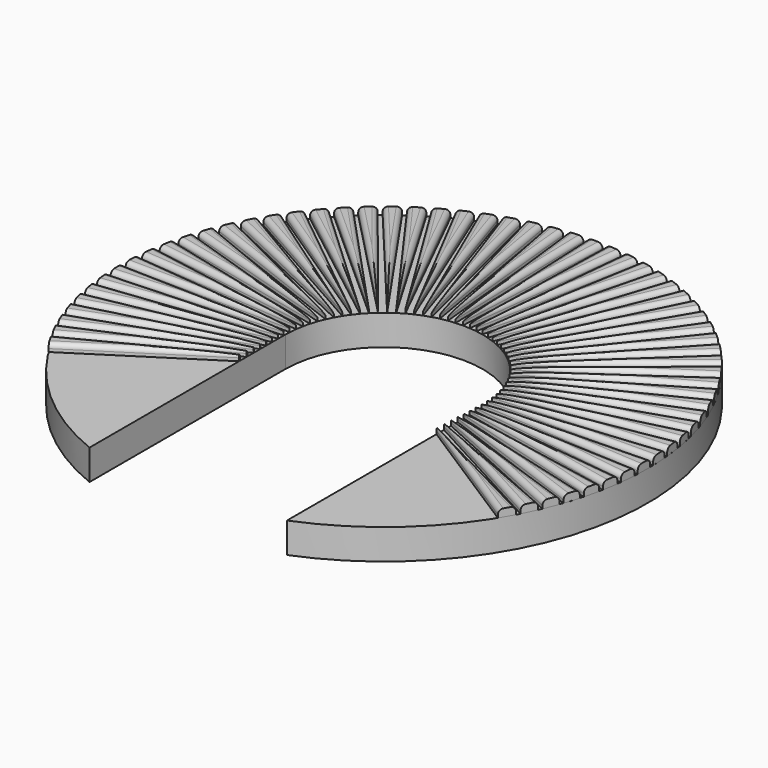
from build123d import *

# Parameters (mm, degrees)
F0_R      = 2.5
F1_DEPTH  = 1
F2_DEPTH  = 2
F4_DEPTH  = 0.5
F5_R      = 0.3
F7_COUNT  = 30
F7_ANGLE  = 120
F8_COUNT  = 30
F8_ANGLE  = 120
F9_W      = 13.0077684298
F9_H      = 7.8710783273
F10_DEPTH = 25


with BuildPart() as f1:
    # F0 (on Top) → F1 (new body)
    with BuildSketch(Plane.XY):
        with Locations((-11.9375, 0)):
            Circle(F0_R)
    extrude(amount=F1_DEPTH)



with BuildPart() as f1b:
    # F0 (on Top) → F1, piece 2 (new body)
    with BuildSketch(Plane.XY):
        with Locations((11.938, 0)):
            Circle(F0_R)
    extrude(amount=F1_DEPTH)


with BuildPart() as f1_1:
    add(f1.part)

    add(f1b.part)  # F2 merges F1b
    # F0 (on Top) → F2 (join)
    with BuildSketch(Plane.XY):
        with BuildLine():
            Line((6.5, 0), (6.5, -16.1133678975))
            ThreePointArc((6.5, -16.1133678975), (0, 17.375), (-6.5, -16.1133678975))
            Line((-6.5, -16.1133678975), (-6.5, 0))
            ThreePointArc((-6.5, 0), (0, 6.5), (6.5, 0))
        make_face()
        with Locations((-11.9375, 0)):
            Circle(F0_R, mode=Mode.SUBTRACT)
        with Locations((11.938, 0)):
            Circle(F0_R, mode=Mode.SUBTRACT)
        with Locations((-11.9375, 0)):
            Circle(F0_R)
        with Locations((11.938, 0)):
            Circle(F0_R)
    extrude(amount=F2_DEPTH)


with BuildPart() as f4:
    # F3 (on face) → F4 (new body)
    with BuildSketch(Plane.XY.offset(2)):
        Polygon((-0.5, 17.3678042654), (0, 6.5), (0.5, 17.3678042654), align=None)
    extrude(amount=F4_DEPTH)

    # F5
    f5_edges = [f4.edges().sort_by_distance(p)[0] for p in [
        (0.25, 11.933902, 2.5),
        (-0.25, 11.933902, 2.5),
    ]]
    fillet(f5_edges, radius=F5_R)


with BuildPart() as f7_1:
    # F7: instance of F4
    add(f4.part.rotate(Axis((0, 0, 7.4848495424), (0, 0, -1)), 1 * F7_ANGLE / (F7_COUNT - 1)))


with BuildPart() as f7_2:
    # F7: instance of F4
    add(f4.part.rotate(Axis((0, 0, 7.4848495424), (0, 0, -1)), 2 * F7_ANGLE / (F7_COUNT - 1)))


with BuildPart() as f7_3:
    # F7: instance of F4
    add(f4.part.rotate(Axis((0, 0, 7.4848495424), (0, 0, -1)), 3 * F7_ANGLE / (F7_COUNT - 1)))


with BuildPart() as f7_4:
    # F7: instance of F4
    add(f4.part.rotate(Axis((0, 0, 7.4848495424), (0, 0, -1)), 4 * F7_ANGLE / (F7_COUNT - 1)))


with BuildPart() as f7_5:
    # F7: instance of F4
    add(f4.part.rotate(Axis((0, 0, 7.4848495424), (0, 0, -1)), 5 * F7_ANGLE / (F7_COUNT - 1)))


with BuildPart() as f7_6:
    # F7: instance of F4
    add(f4.part.rotate(Axis((0, 0, 7.4848495424), (0, 0, -1)), 6 * F7_ANGLE / (F7_COUNT - 1)))


with BuildPart() as f7_7:
    # F7: instance of F4
    add(f4.part.rotate(Axis((0, 0, 7.4848495424), (0, 0, -1)), 7 * F7_ANGLE / (F7_COUNT - 1)))


with BuildPart() as f7_8:
    # F7: instance of F4
    add(f4.part.rotate(Axis((0, 0, 7.4848495424), (0, 0, -1)), 8 * F7_ANGLE / (F7_COUNT - 1)))


with BuildPart() as f7_9:
    # F7: instance of F4
    add(f4.part.rotate(Axis((0, 0, 7.4848495424), (0, 0, -1)), 9 * F7_ANGLE / (F7_COUNT - 1)))


with BuildPart() as f7_10:
    # F7: instance of F4
    add(f4.part.rotate(Axis((0, 0, 7.4848495424), (0, 0, -1)), 10 * F7_ANGLE / (F7_COUNT - 1)))


with BuildPart() as f7_11:
    # F7: instance of F4
    add(f4.part.rotate(Axis((0, 0, 7.4848495424), (0, 0, -1)), 11 * F7_ANGLE / (F7_COUNT - 1)))


with BuildPart() as f7_12:
    # F7: instance of F4
    add(f4.part.rotate(Axis((0, 0, 7.4848495424), (0, 0, -1)), 12 * F7_ANGLE / (F7_COUNT - 1)))


with BuildPart() as f7_13:
    # F7: instance of F4
    add(f4.part.rotate(Axis((0, 0, 7.4848495424), (0, 0, -1)), 13 * F7_ANGLE / (F7_COUNT - 1)))


with BuildPart() as f7_14:
    # F7: instance of F4
    add(f4.part.rotate(Axis((0, 0, 7.4848495424), (0, 0, -1)), 14 * F7_ANGLE / (F7_COUNT - 1)))


with BuildPart() as f7_15:
    # F7: instance of F4
    add(f4.part.rotate(Axis((0, 0, 7.4848495424), (0, 0, -1)), 15 * F7_ANGLE / (F7_COUNT - 1)))


with BuildPart() as f7_16:
    # F7: instance of F4
    add(f4.part.rotate(Axis((0, 0, 7.4848495424), (0, 0, -1)), 16 * F7_ANGLE / (F7_COUNT - 1)))


with BuildPart() as f7_17:
    # F7: instance of F4
    add(f4.part.rotate(Axis((0, 0, 7.4848495424), (0, 0, -1)), 17 * F7_ANGLE / (F7_COUNT - 1)))


with BuildPart() as f7_18:
    # F7: instance of F4
    add(f4.part.rotate(Axis((0, 0, 7.4848495424), (0, 0, -1)), 18 * F7_ANGLE / (F7_COUNT - 1)))


with BuildPart() as f7_19:
    # F7: instance of F4
    add(f4.part.rotate(Axis((0, 0, 7.4848495424), (0, 0, -1)), 19 * F7_ANGLE / (F7_COUNT - 1)))


with BuildPart() as f7_20:
    # F7: instance of F4
    add(f4.part.rotate(Axis((0, 0, 7.4848495424), (0, 0, -1)), 20 * F7_ANGLE / (F7_COUNT - 1)))


with BuildPart() as f7_21:
    # F7: instance of F4
    add(f4.part.rotate(Axis((0, 0, 7.4848495424), (0, 0, -1)), 21 * F7_ANGLE / (F7_COUNT - 1)))


with BuildPart() as f7_22:
    # F7: instance of F4
    add(f4.part.rotate(Axis((0, 0, 7.4848495424), (0, 0, -1)), 22 * F7_ANGLE / (F7_COUNT - 1)))


with BuildPart() as f7_23:
    # F7: instance of F4
    add(f4.part.rotate(Axis((0, 0, 7.4848495424), (0, 0, -1)), 23 * F7_ANGLE / (F7_COUNT - 1)))


with BuildPart() as f7_24:
    # F7: instance of F4
    add(f4.part.rotate(Axis((0, 0, 7.4848495424), (0, 0, -1)), 24 * F7_ANGLE / (F7_COUNT - 1)))


with BuildPart() as f7_25:
    # F7: instance of F4
    add(f4.part.rotate(Axis((0, 0, 7.4848495424), (0, 0, -1)), 25 * F7_ANGLE / (F7_COUNT - 1)))


with BuildPart() as f7_26:
    # F7: instance of F4
    add(f4.part.rotate(Axis((0, 0, 7.4848495424), (0, 0, -1)), 26 * F7_ANGLE / (F7_COUNT - 1)))


with BuildPart() as f7_27:
    # F7: instance of F4
    add(f4.part.rotate(Axis((0, 0, 7.4848495424), (0, 0, -1)), 27 * F7_ANGLE / (F7_COUNT - 1)))


with BuildPart() as f7_28:
    # F7: instance of F4
    add(f4.part.rotate(Axis((0, 0, 7.4848495424), (0, 0, -1)), 28 * F7_ANGLE / (F7_COUNT - 1)))


with BuildPart() as f7_29:
    # F7: instance of F4
    add(f4.part.rotate(Axis((0, 0, 7.4848495424), (0, 0, -1)), 29 * F7_ANGLE / (F7_COUNT - 1)))


with BuildPart() as f8_1:
    # F8: instance of F4
    add(f4.part.rotate(Axis((0, 0, 7.4848495424), (0, 0, 1)), 1 * F8_ANGLE / (F8_COUNT - 1)))


with BuildPart() as f8_2:
    # F8: instance of F4
    add(f4.part.rotate(Axis((0, 0, 7.4848495424), (0, 0, 1)), 2 * F8_ANGLE / (F8_COUNT - 1)))


with BuildPart() as f8_3:
    # F8: instance of F4
    add(f4.part.rotate(Axis((0, 0, 7.4848495424), (0, 0, 1)), 3 * F8_ANGLE / (F8_COUNT - 1)))


with BuildPart() as f8_4:
    # F8: instance of F4
    add(f4.part.rotate(Axis((0, 0, 7.4848495424), (0, 0, 1)), 4 * F8_ANGLE / (F8_COUNT - 1)))


with BuildPart() as f8_5:
    # F8: instance of F4
    add(f4.part.rotate(Axis((0, 0, 7.4848495424), (0, 0, 1)), 5 * F8_ANGLE / (F8_COUNT - 1)))


with BuildPart() as f8_6:
    # F8: instance of F4
    add(f4.part.rotate(Axis((0, 0, 7.4848495424), (0, 0, 1)), 6 * F8_ANGLE / (F8_COUNT - 1)))


with BuildPart() as f8_7:
    # F8: instance of F4
    add(f4.part.rotate(Axis((0, 0, 7.4848495424), (0, 0, 1)), 7 * F8_ANGLE / (F8_COUNT - 1)))


with BuildPart() as f8_8:
    # F8: instance of F4
    add(f4.part.rotate(Axis((0, 0, 7.4848495424), (0, 0, 1)), 8 * F8_ANGLE / (F8_COUNT - 1)))


with BuildPart() as f8_9:
    # F8: instance of F4
    add(f4.part.rotate(Axis((0, 0, 7.4848495424), (0, 0, 1)), 9 * F8_ANGLE / (F8_COUNT - 1)))


with BuildPart() as f8_10:
    # F8: instance of F4
    add(f4.part.rotate(Axis((0, 0, 7.4848495424), (0, 0, 1)), 10 * F8_ANGLE / (F8_COUNT - 1)))


with BuildPart() as f8_11:
    # F8: instance of F4
    add(f4.part.rotate(Axis((0, 0, 7.4848495424), (0, 0, 1)), 11 * F8_ANGLE / (F8_COUNT - 1)))


with BuildPart() as f8_12:
    # F8: instance of F4
    add(f4.part.rotate(Axis((0, 0, 7.4848495424), (0, 0, 1)), 12 * F8_ANGLE / (F8_COUNT - 1)))


with BuildPart() as f8_13:
    # F8: instance of F4
    add(f4.part.rotate(Axis((0, 0, 7.4848495424), (0, 0, 1)), 13 * F8_ANGLE / (F8_COUNT - 1)))


with BuildPart() as f8_14:
    # F8: instance of F4
    add(f4.part.rotate(Axis((0, 0, 7.4848495424), (0, 0, 1)), 14 * F8_ANGLE / (F8_COUNT - 1)))


with BuildPart() as f8_15:
    # F8: instance of F4
    add(f4.part.rotate(Axis((0, 0, 7.4848495424), (0, 0, 1)), 15 * F8_ANGLE / (F8_COUNT - 1)))


with BuildPart() as f8_16:
    # F8: instance of F4
    add(f4.part.rotate(Axis((0, 0, 7.4848495424), (0, 0, 1)), 16 * F8_ANGLE / (F8_COUNT - 1)))


with BuildPart() as f8_17:
    # F8: instance of F4
    add(f4.part.rotate(Axis((0, 0, 7.4848495424), (0, 0, 1)), 17 * F8_ANGLE / (F8_COUNT - 1)))


with BuildPart() as f8_18:
    # F8: instance of F4
    add(f4.part.rotate(Axis((0, 0, 7.4848495424), (0, 0, 1)), 18 * F8_ANGLE / (F8_COUNT - 1)))


with BuildPart() as f8_19:
    # F8: instance of F4
    add(f4.part.rotate(Axis((0, 0, 7.4848495424), (0, 0, 1)), 19 * F8_ANGLE / (F8_COUNT - 1)))


with BuildPart() as f8_20:
    # F8: instance of F4
    add(f4.part.rotate(Axis((0, 0, 7.4848495424), (0, 0, 1)), 20 * F8_ANGLE / (F8_COUNT - 1)))


with BuildPart() as f8_21:
    # F8: instance of F4
    add(f4.part.rotate(Axis((0, 0, 7.4848495424), (0, 0, 1)), 21 * F8_ANGLE / (F8_COUNT - 1)))


with BuildPart() as f8_22:
    # F8: instance of F4
    add(f4.part.rotate(Axis((0, 0, 7.4848495424), (0, 0, 1)), 22 * F8_ANGLE / (F8_COUNT - 1)))


with BuildPart() as f8_23:
    # F8: instance of F4
    add(f4.part.rotate(Axis((0, 0, 7.4848495424), (0, 0, 1)), 23 * F8_ANGLE / (F8_COUNT - 1)))


with BuildPart() as f8_24:
    # F8: instance of F4
    add(f4.part.rotate(Axis((0, 0, 7.4848495424), (0, 0, 1)), 24 * F8_ANGLE / (F8_COUNT - 1)))


with BuildPart() as f8_25:
    # F8: instance of F4
    add(f4.part.rotate(Axis((0, 0, 7.4848495424), (0, 0, 1)), 25 * F8_ANGLE / (F8_COUNT - 1)))


with BuildPart() as f8_26:
    # F8: instance of F4
    add(f4.part.rotate(Axis((0, 0, 7.4848495424), (0, 0, 1)), 26 * F8_ANGLE / (F8_COUNT - 1)))


with BuildPart() as f8_27:
    # F8: instance of F4
    add(f4.part.rotate(Axis((0, 0, 7.4848495424), (0, 0, 1)), 27 * F8_ANGLE / (F8_COUNT - 1)))


with BuildPart() as f8_28:
    # F8: instance of F4
    add(f4.part.rotate(Axis((0, 0, 7.4848495424), (0, 0, 1)), 28 * F8_ANGLE / (F8_COUNT - 1)))


with BuildPart() as f8_29:
    # F8: instance of F4
    add(f4.part.rotate(Axis((0, 0, 7.4848495424), (0, 0, 1)), 29 * F8_ANGLE / (F8_COUNT - 1)))


with BuildPart() as f10_tool:
    # F9 (on Top) → F10 (new body)
    with BuildSketch(Plane.XY):
        with Locations((-0.0036372803, -3.9355391636)):
            Rectangle(F9_W, F9_H)
    extrude(amount=F10_DEPTH)


with BuildPart() as f7_22_1:
    add(f7_22.part)

    # F10: cut by f10_tool
    add(f10_tool.part, mode=Mode.SUBTRACT)


with BuildPart() as f7_23_1:
    add(f7_23.part)

    # F10: cut by f10_tool
    add(f10_tool.part, mode=Mode.SUBTRACT)


with BuildPart() as f7_24_1:
    add(f7_24.part)

    # F10: cut by f10_tool
    add(f10_tool.part, mode=Mode.SUBTRACT)


with BuildPart() as f7_25_1:
    add(f7_25.part)

    # F10: cut by f10_tool
    add(f10_tool.part, mode=Mode.SUBTRACT)


with BuildPart() as f7_26_1:
    add(f7_26.part)

    # F10: cut by f10_tool
    add(f10_tool.part, mode=Mode.SUBTRACT)


with BuildPart() as f7_27_1:
    add(f7_27.part)

    # F10: cut by f10_tool
    add(f10_tool.part, mode=Mode.SUBTRACT)


with BuildPart() as f7_28_1:
    add(f7_28.part)

    # F10: cut by f10_tool
    add(f10_tool.part, mode=Mode.SUBTRACT)


with BuildPart() as f7_29_1:
    add(f7_29.part)

    # F10: cut by f10_tool
    add(f10_tool.part, mode=Mode.SUBTRACT)


with BuildPart() as f8_22_1:
    add(f8_22.part)

    # F10: cut by f10_tool
    add(f10_tool.part, mode=Mode.SUBTRACT)


with BuildPart() as f8_23_1:
    add(f8_23.part)

    # F10: cut by f10_tool
    add(f10_tool.part, mode=Mode.SUBTRACT)


with BuildPart() as f8_24_1:
    add(f8_24.part)

    # F10: cut by f10_tool
    add(f10_tool.part, mode=Mode.SUBTRACT)


with BuildPart() as f8_25_1:
    add(f8_25.part)

    # F10: cut by f10_tool
    add(f10_tool.part, mode=Mode.SUBTRACT)


with BuildPart() as f8_26_1:
    add(f8_26.part)

    # F10: cut by f10_tool
    add(f10_tool.part, mode=Mode.SUBTRACT)


with BuildPart() as f8_27_1:
    add(f8_27.part)

    # F10: cut by f10_tool
    add(f10_tool.part, mode=Mode.SUBTRACT)


with BuildPart() as f8_28_1:
    add(f8_28.part)

    # F10: cut by f10_tool
    add(f10_tool.part, mode=Mode.SUBTRACT)


with BuildPart() as f8_29_1:
    add(f8_29.part)

    # F10: cut by f10_tool
    add(f10_tool.part, mode=Mode.SUBTRACT)


solid = Compound([f1_1.part, f4.part, f7_1.part, f7_2.part, f7_3.part, f7_4.part, f7_5.part, f7_6.part, f7_7.part, f7_8.part, f7_9.part, f7_10.part, f7_11.part, f7_12.part, f7_13.part, f7_14.part, f7_15.part, f7_16.part, f7_17.part, f7_18.part, f7_19.part, f7_20.part, f7_21.part, f8_1.part, f8_2.part, f8_3.part, f8_4.part, f8_5.part, f8_6.part, f8_7.part, f8_8.part, f8_9.part, f8_10.part, f8_11.part, f8_12.part, f8_13.part, f8_14.part, f8_15.part, f8_16.part, f8_17.part, f8_18.part, f8_19.part, f8_20.part, f8_21.part, f7_22_1.part, f7_23_1.part, f7_24_1.part, f7_25_1.part, f7_26_1.part, f7_27_1.part, f7_28_1.part, f7_29_1.part, f8_22_1.part, f8_23_1.part, f8_24_1.part, f8_25_1.part, f8_26_1.part, f8_27_1.part, f8_28_1.part, f8_29_1.part])
